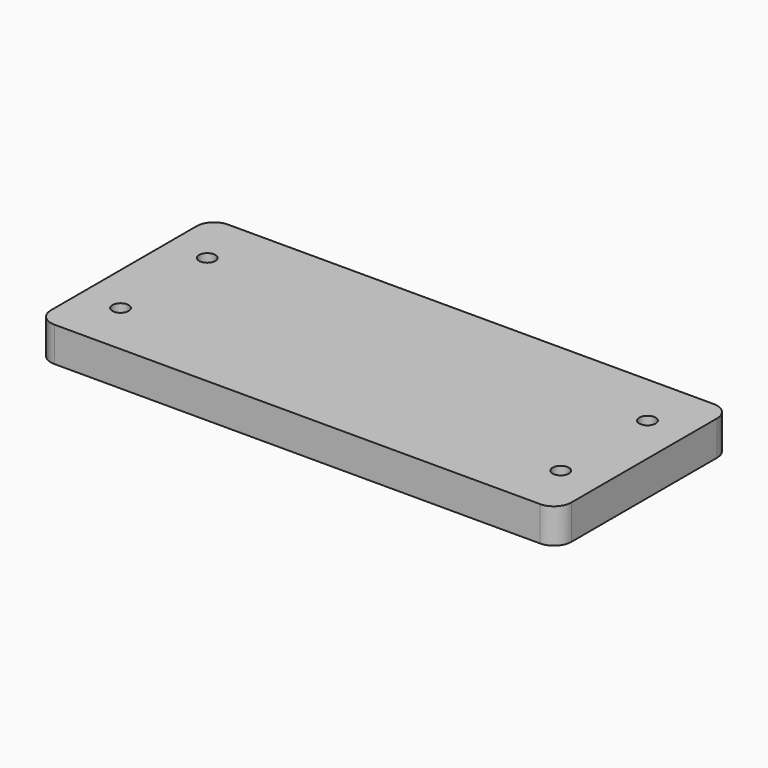
from build123d import *

# Parameters (mm, degrees)
SKETCH_W     = 120
SKETCH_H     = 50
PAD_DEPTH    = 8
SKETCH001_R  = 1.875
POCKET_DEPTH = 8.001
FILLET_R     = 4


with BuildPart() as part:
    # Sketch → Pad (new body)
    with BuildSketch(Plane.XY):
        Rectangle(SKETCH_W, SKETCH_H)
    extrude(amount=PAD_DEPTH)

    # Sketch001 (on Face6 of Pad) → Pocket (cut, through all)
    with BuildSketch(Plane.XY.offset(8)):
        with Locations((-50.75, 12.5)):
            Circle(SKETCH001_R)
        with Locations((50.75, 12.5)):
            Circle(SKETCH001_R)
        with Locations((-50.75, -12.5)):
            Circle(SKETCH001_R)
        with Locations((50.75, -12.5)):
            Circle(SKETCH001_R)
    extrude(amount=-POCKET_DEPTH, mode=Mode.SUBTRACT)

    # Fillet
    fillet_edges = [part.edges().sort_by_distance(p)[0] for p in [
        (-60, 25, 4),
        (-60, -25, 4),
        (60, -25, 4),
        (60, 25, 4),
    ]]
    fillet(fillet_edges, radius=FILLET_R)


solid = part.part
